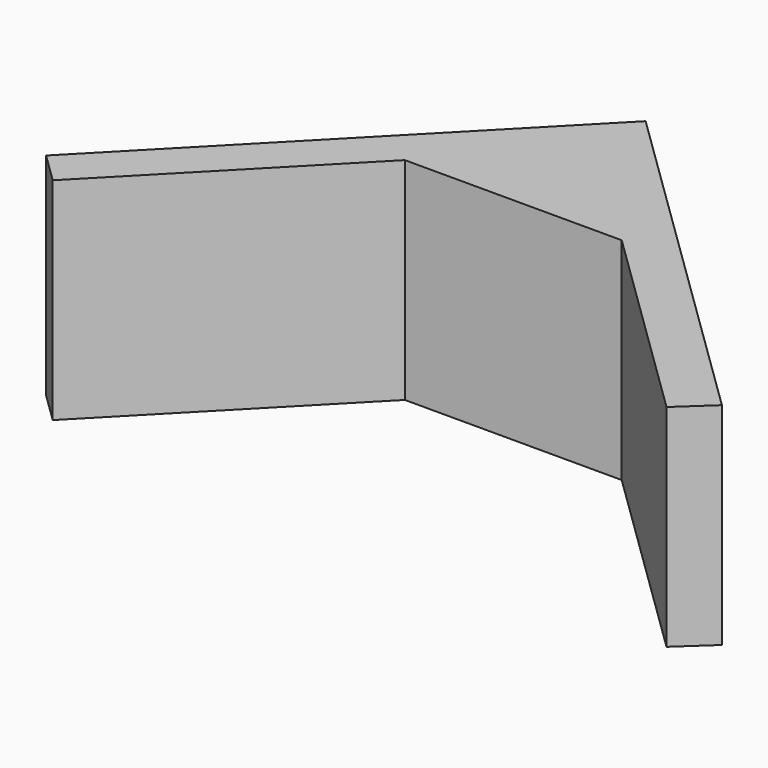
from build123d import *

# Parameters (mm, degrees)
F1_DEPTH = 25


with BuildPart() as f1:
    # F0 (on Top) → F1 (new body)
    with BuildSketch(Plane.XY):
        Polygon((0, 40), (-38.992442, 0), (-35.412103, -3.490154), (-12.513641, 20), (0, 32.836992), (13.168698, 20), (37.265833, -3.490154), (41.033594, 0), align=None)
        Polygon((0, 32.836992), (-12.513641, 20), (13.168698, 20), align=None)
    extrude(amount=F1_DEPTH)


solid = f1.part
